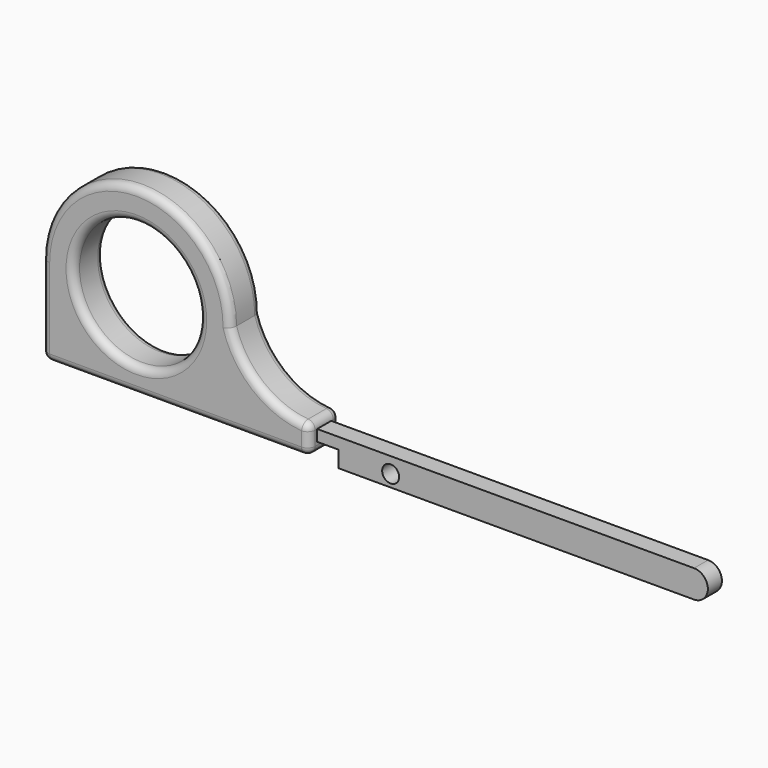
from build123d import *

# Parameters (mm, degrees)
F0_R     = 12.7
F0_R_2   = 1.7145
F1_DEPTH = 1.778
F2_DEPTH = 3.81
F3_R     = 1.524


with BuildPart() as f1:
    # F0 (on Front) → F1 (new body, symmetric)
    with BuildSketch(Plane.XZ):
        with BuildLine():
            ThreePointArc((-15.875, 8.889999828), (-34.925, 27.939999828), (-53.975, 8.889999828))
            Line((-53.975, 8.889999828), (-53.975, -7.366000172))
            ThreePointArc((-53.975, -7.366000172), (-53.5286307345, -8.4436309065), (-52.451, -8.890000172))
            Line((-52.451, -8.890000172), (-1.5220896796, -8.890000172))
            ThreePointArc((-1.5220896796, -8.890000172), (-0.4444589451, -8.4436309065), (0.0019103204, -7.366000172))
            Line((0.0019103204, -7.366000172), (0.0019103204, -6.7696216721))
            Line((0.0019103204, -6.7696216721), (0.0019103204, -4.4836216721))
            ThreePointArc((0.0019103204, -4.4836216721), (-0.4004734297, -3.4520068765), (-1.3949844225, -2.9650883473))
            ThreePointArc((-1.3949844225, -2.9650883473), (-10.4768897023, 0.7127293809), (-15.875, 8.889999828))
        make_face()
        with Locations((-34.925, 8.889999828)):
            Circle(F0_R, mode=Mode.SUBTRACT)
        with BuildLine():
            Line((76.2019103204, -4.4836216721), (0.0019103204, -4.4836216721))
            Line((0.0019103204, -4.4836216721), (0.0019103204, -6.7696216721))
            Line((0.0019103204, -6.7696216721), (4.3199103204, -6.7696216721))
            Line((4.3199103204, -6.7696216721), (4.3199103204, -10.0716216721))
            Line((4.3199103204, -10.0716216721), (76.2019103204, -10.0716216721))
            ThreePointArc((76.2019103204, -10.0716216721), (78.9959103204, -7.2776216721), (76.2019103204, -4.4836216721))
        make_face()
        with Locations((14.8609103204, -7.6513164506)):
            Circle(F0_R_2, mode=Mode.SUBTRACT)
    extrude(amount=F1_DEPTH, both=True)

    # F0 (on Front) → F2 (join, symmetric)
    with BuildSketch(Plane.XZ):
        with BuildLine():
            ThreePointArc((-15.875, 8.889999828), (-34.925, 27.939999828), (-53.975, 8.889999828))
            Line((-53.975, 8.889999828), (-53.975, -7.366000172))
            ThreePointArc((-53.975, -7.366000172), (-53.5286307345, -8.4436309065), (-52.451, -8.890000172))
            Line((-52.451, -8.890000172), (-1.5220896796, -8.890000172))
            ThreePointArc((-1.5220896796, -8.890000172), (-0.4444589451, -8.4436309065), (0.0019103204, -7.366000172))
            Line((0.0019103204, -7.366000172), (0.0019103204, -6.7696216721))
            Line((0.0019103204, -6.7696216721), (0.0019103204, -4.4836216721))
            ThreePointArc((0.0019103204, -4.4836216721), (-0.4004734297, -3.4520068765), (-1.3949844225, -2.9650883473))
            ThreePointArc((-1.3949844225, -2.9650883473), (-10.4768897023, 0.7127293809), (-15.875, 8.889999828))
        make_face()
        with Locations((-34.925, 8.889999828)):
            Circle(F0_R, mode=Mode.SUBTRACT)
    extrude(amount=F2_DEPTH, both=True)

    # F3
    f3_edges = [f1.edges().sort_by_distance(p)[0] for p in [
        (-34.925, -3.81, 27.94),
        (-47.625, -3.81, 8.89),
        (-47.625, 3.81, 8.89),
        (-34.925, 3.81, 27.94),
    ]]
    fillet(f3_edges, radius=F3_R)


solid = f1.part
